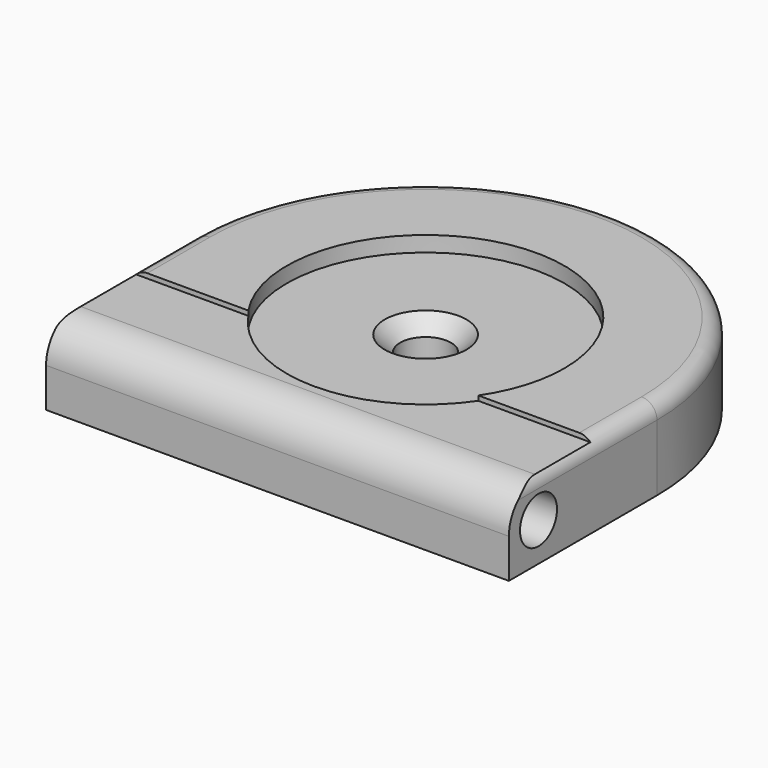
from build123d import *

# Parameters (mm, degrees)
PAD010_DEPTH    = 5.3
SKETCH022_W     = 31.062653
SKETCH022_H     = 8.215561
POCKET008_DEPTH = 0.305
FILLET003_R     = 2.45
FILLET004_R     = 1
SKETCH023_R     = 9
POCKET009_DEPTH = 1
SKETCH024_R     = 1.65
POCKET010_DEPTH = 5
SKETCH025_R     = 1.5
POCKET011_DEPTH = 31
CHAMFER_SIZE    = 1


with BuildPart() as part:
    # Sketch021 → Pad010 (new body)
    with BuildSketch(Plane.XY):
        with BuildLine():
            ThreePointArc((15, 0), (0, 15), (-15, 0))
            Line((-15, 0), (-15, -12))
            Line((-15, -12), (15, -12))
            Line((15, 0), (15, -12))
        make_face()
    extrude(amount=PAD010_DEPTH)

    # Sketch022 (on Face6 of Pad010) → Pocket008 (cut)
    with BuildSketch(Plane.XY.offset(5.3)):
        with Locations((0.051316, -9.153541)):
            Rectangle(SKETCH022_W, SKETCH022_H)
    extrude(amount=-POCKET008_DEPTH, mode=Mode.SUBTRACT)

    # Fillet003
    fillet003_edges = [part.edges().sort_by_distance(p)[0] for p in [
        (0, -12, 4.995),
    ]]
    fillet(fillet003_edges, radius=FILLET003_R)

    # Fillet004
    fillet004_edges = [part.edges().sort_by_distance(p)[0] for p in [
        (0, 15, 5.3),
    ]]
    fillet(fillet004_edges, radius=FILLET004_R)

    # Sketch023 (on Face12 of Fillet004) → Pocket009 (cut)
    with BuildSketch(Plane.XY.offset(5.3)):
        Circle(SKETCH023_R)
    extrude(amount=-POCKET009_DEPTH, mode=Mode.SUBTRACT)

    # Sketch024 (on Face15 of Pocket009) → Pocket010 (cut)
    with BuildSketch(Plane.XY.offset(4.3)):
        Circle(SKETCH024_R)
    extrude(amount=-POCKET010_DEPTH, mode=Mode.SUBTRACT)

    # Sketch025 (on Face1 of Pocket010) → Pocket011 (cut)
    with BuildSketch(Plane.YZ.offset(15)):
        with Locations((-9.6, 2.5)):
            Circle(SKETCH025_R)
    extrude(amount=-POCKET011_DEPTH, mode=Mode.SUBTRACT)

    # Chamfer
    chamfer_edges = [part.edges().sort_by_distance(p)[0] for p in [
        (-1.65, 0, 4.3),
    ]]
    chamfer(chamfer_edges, length=CHAMFER_SIZE)


with BuildPart() as part_1:
    # Body006 placement: moved
    add(part.part.moved(Location((59.5, -74.6, 85))))


solid = part_1.part
